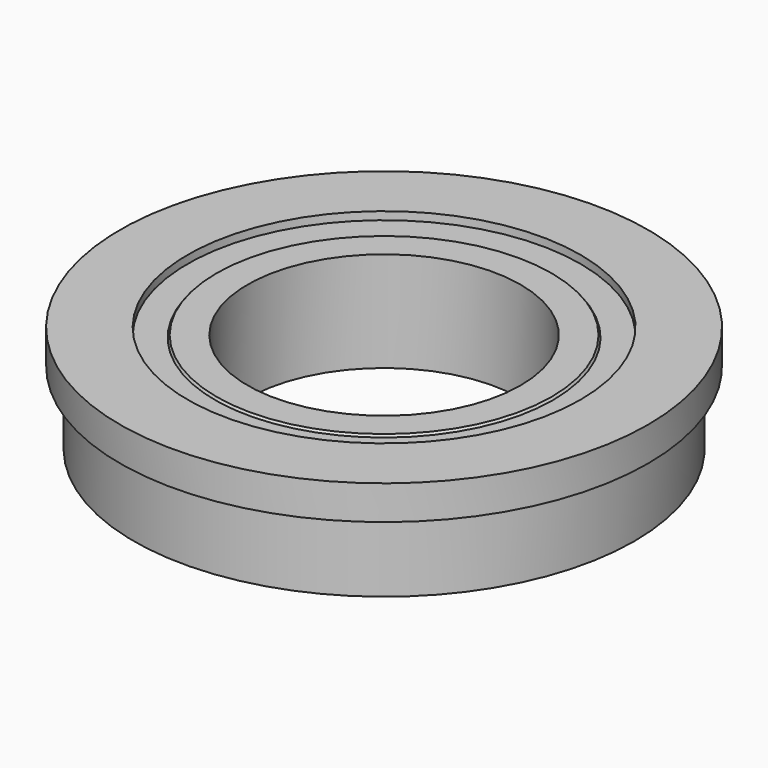
from build123d import *


with BuildPart() as body:
    # Sketch (on XZ_Plane of Origin) → Revolution (revolve)
    with BuildSketch(Plane.XZ):
        Polygon((30, 22), (30, 0), (36.799792, 0), (37.149896, 0.5), (49.149896, 0.5), (49.5, 0), (55, 0), (55, 22), (49.5, 22), (49.149896, 21.5), (37.149896, 21.5), (36.799792, 22), align=None)
    revolve(axis=Axis((0, 0, 0), (0, 0, 1)))


with BuildPart() as body001:
    # Sketch001 (on XZ_Plane001 of Origin002) → Revolution001 (revolve)
    with BuildSketch(Plane.XZ):
        Polygon((55, 16), (55, 22), (49.5, 22), (49.324948, 21.75), (43.149896, 21.75), (43.149896, 23.5), (58, 23.5), (58, 16), align=None)
    revolve(axis=Axis((0, 0, 0), (0, 0, 1)))


solid = Compound([body.part, body001.part])
